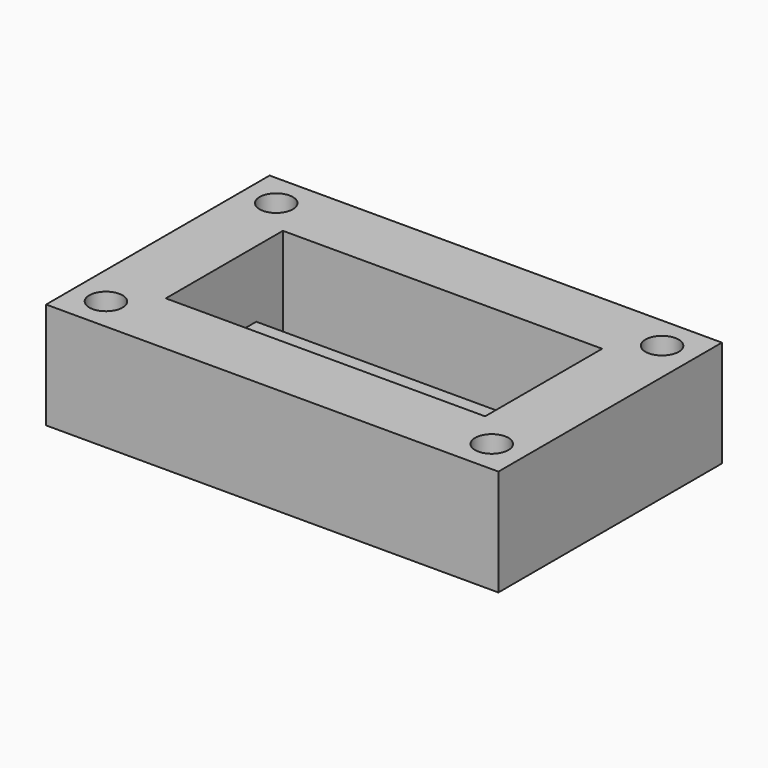
from build123d import *

# Parameters (mm, degrees)
F0_W     = 34
F0_H     = 21
F1_DEPTH = 5
F0_W_2   = 24
F0_H_2   = 8.5
F0_H_3   = 2.5
F2_DEPTH = 3
F3_DEPTH = 2.5
F4_R     = 1.1
F5_DEPTH = 3
F6_R     = 1.25
F7_DEPTH = 8


with BuildPart() as f1:
    # F0 (on Top) → F1 (new body)
    with BuildSketch(Plane.XY):
        with Locations((-17, 10.5)):
            Rectangle(F0_W, F0_H)
        Polygon((-29, 13.5), (-29, 16), (-5, 16), (-5, 13.5), (-5, 5), (-29, 5), align=None, mode=Mode.SUBTRACT)
    extrude(amount=F1_DEPTH)

    # F0 (on Top) → F2 (join)
    with BuildSketch(Plane.XY):
        with Locations((-17, 10.5)):
            Rectangle(F0_W, F0_H)
        Polygon((-29, 13.5), (-29, 16), (-5, 16), (-5, 13.5), (-5, 5), (-29, 5), align=None, mode=Mode.SUBTRACT)
        with Locations((-17, 9.25)):
            Rectangle(F0_W_2, F0_H_2)
        with Locations((-17, 14.75)):
            Rectangle(F0_W_2, F0_H_3)
    extrude(amount=-F2_DEPTH)

    # F0 (on Top) → F3 (cut)
    with BuildSketch(Plane.XY):
        with Locations((-17, 14.75)):
            Rectangle(F0_W_2, F0_H_3)
    extrude(amount=-F3_DEPTH, mode=Mode.SUBTRACT)

    # F4 (on face) → F5 (cut, through all)
    with BuildSketch(Plane.XY):
        with Locations((-26.2, 7.8)):
            Circle(F4_R)
    extrude(amount=-F5_DEPTH, mode=Mode.SUBTRACT)

    # F6 (on face) → F7 (cut, through all)
    with BuildSketch(Plane.XY.offset(5)):
        with Locations((-31.5, 18.5)):
            Circle(F6_R)
        with Locations((-2.5, 18.5)):
            Circle(F6_R)
        with Locations((-2.5, 2.5)):
            Circle(F6_R)
        with Locations((-31.5, 2.5)):
            Circle(F6_R)
    extrude(amount=-F7_DEPTH, mode=Mode.SUBTRACT)


solid = f1.part
